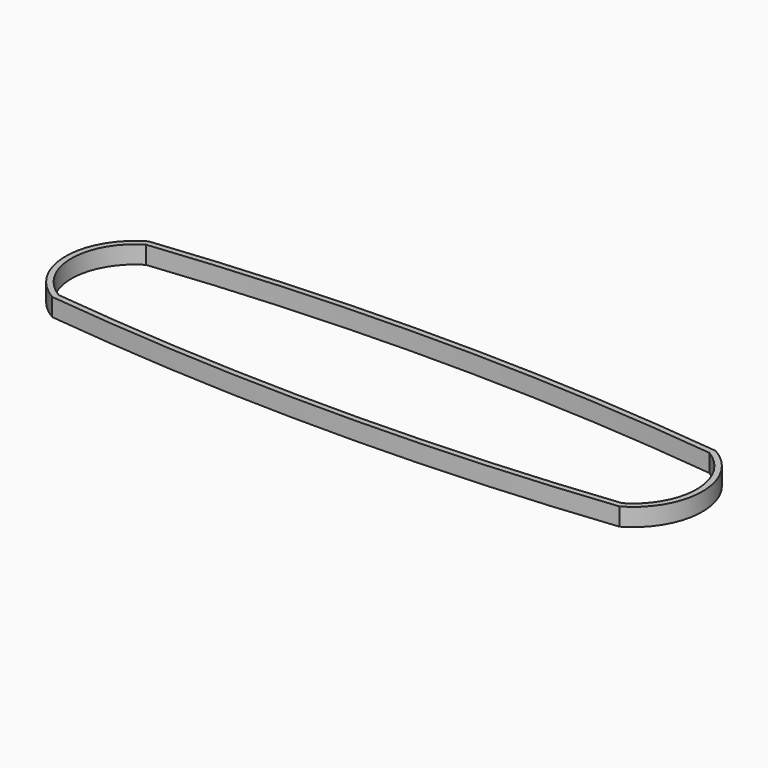
from build123d import *

# Parameters (mm, degrees)
F1_DEPTH = 4.9


with BuildPart() as f1:
    # F0 (on Top) → F1 (new body)
    with BuildSketch(Plane.XY):
        with BuildLine():
            ThreePointArc((30.528466, -22.028455), (40.097824, -5.476208), (30.528466, 11.076038))
            ThreePointArc((30.528466, 11.076038), (-47.488298, 15.427198), (-125.505062, 11.076038))
            ThreePointArc((-125.505062, 11.076038), (-135.07442, -5.476208), (-125.505062, -22.028455))
            ThreePointArc((-125.505062, -22.028455), (-47.488298, -26.379615), (30.528466, -22.028455))
        make_face()
        with BuildLine():
            ThreePointArc((-124.988298, -20.476208), (-133.47442, -5.476208), (-124.988298, 9.523792))
            ThreePointArc((-124.988298, 9.523792), (-47.488298, 13.827198), (30.011702, 9.523792))
            ThreePointArc((30.011702, 9.523792), (38.497824, -5.476208), (30.011702, -20.476208))
            ThreePointArc((30.011702, -20.476208), (-47.488298, -24.779615), (-124.988298, -20.476208))
        make_face(mode=Mode.SUBTRACT)
    extrude(amount=F1_DEPTH)


solid = f1.part
